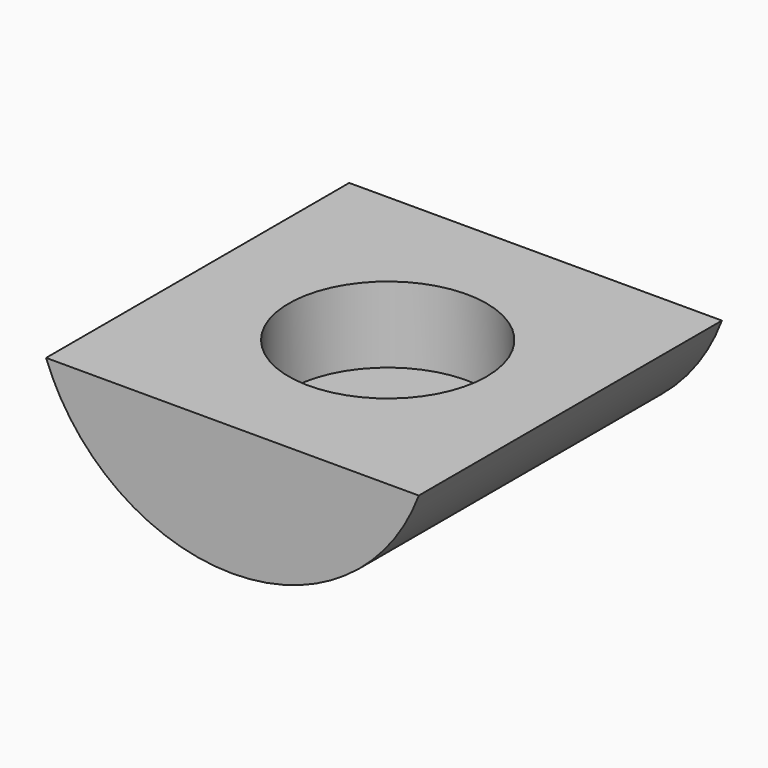
from build123d import *

# Parameters (mm, degrees)
F1_DEPTH = 12.7
F2_R     = 3.3169
F3_DEPTH = 2.54


with BuildPart() as f1:
    # F0 (on Front) → F1 (new body)
    with BuildSketch(Plane.XZ):
        with BuildLine():
            Line((-1.763439, 0), (-6.35, 0))
            ThreePointArc((-6.35, 0), (-0.103692, -4.334361), (6.142617, 0))
            Line((6.142617, 0), (1.579912, 0))
            Line((1.579912, 0), (-1.763439, 0))
        make_face()
    extrude(amount=F1_DEPTH)

    # F2 (on face) → F3 (cut)
    with BuildSketch(Plane.XY):
        with Locations((0, -6.323542)):
            Circle(F2_R)
    extrude(amount=-F3_DEPTH, mode=Mode.SUBTRACT)


solid = f1.part
